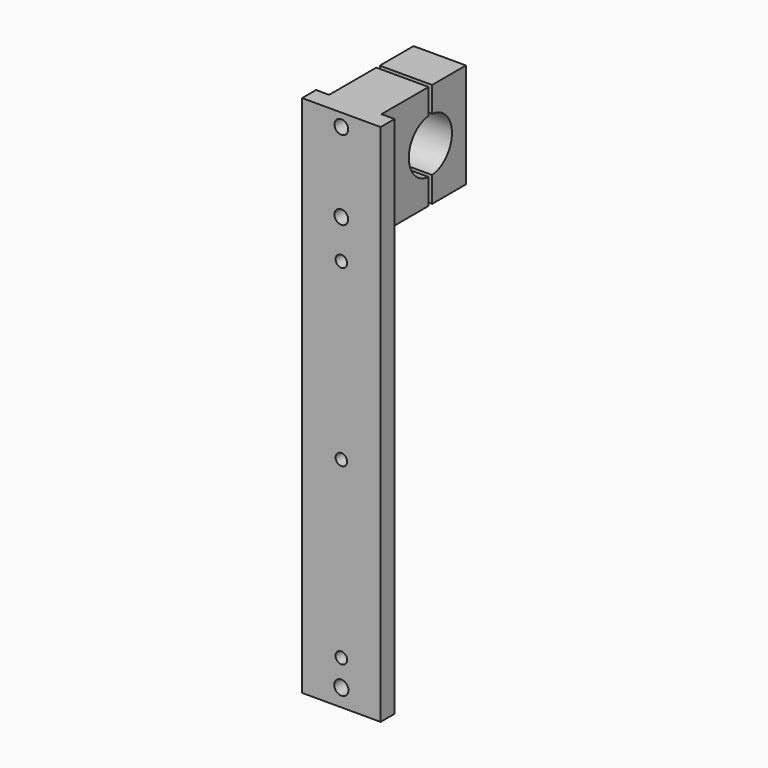
from build123d import *

# Parameters (mm, degrees)
F1_DEPTH       = 14.2875
F1_DEPTH_BACK  = 14.2875
F3_DEPTH       = 9.525
F3_DEPTH_BACK  = 9.525
F4_D           = 5
F4_DEPTH       = 76.2
F4_CBORE_D     = 11.25
F4_CBORE_DEPTH = 0
F5_D           = 4.191
F5_DEPTH       = 76.2
F5_CBORE_D     = 11.25
F5_CBORE_DEPTH = 0
F6_D           = 5.1816
F6_DEPTH       = 76.2
F6_CBORE_D     = 11.25
F6_CBORE_DEPTH = 0


with BuildPart() as f1:
    # F0 (on Right) → F1 (new body, two sides)
    with BuildSketch(Plane.YZ) as f1_sk:
        Polygon((-22.225, 19.05), (-28.575, 19.05), (-28.575, -171.45), (-22.225, -171.45), (-22.225, -19.05), align=None)
    extrude(amount=F1_DEPTH)
    extrude(f1_sk.sketch, amount=-F1_DEPTH_BACK)

    # F0 (on Right) → F3 (join, two sides)
    with BuildSketch(Plane.YZ) as f3_sk:
        with BuildLine():
            Line((-0.79375, 19.05), (-22.225, 19.05))
            Line((-22.225, 19.05), (-22.225, -19.05))
            Line((-22.225, -19.05), (-0.79375, -19.05))
            Line((-0.79375, -19.05), (-0.79375, -9.784959))
            ThreePointArc((-0.79375, -9.784959), (-9.8171, 0), (-0.79375, 9.784959))
            Line((-0.79375, 9.784959), (-0.79375, 19.05))
        make_face()
        with BuildLine():
            Line((16.1671, -19.05), (16.1671, 19.05))
            Line((16.1671, 19.05), (0.79375, 19.05))
            Line((0.79375, 19.05), (0.79375, 9.784959))
            ThreePointArc((0.79375, 9.784959), (9.8171, 0), (0.79375, -9.784959))
            Line((0.79375, -9.784959), (0.79375, -19.05))
            Line((0.79375, -19.05), (16.1671, -19.05))
        make_face()
    extrude(amount=F3_DEPTH)
    extrude(f3_sk.sketch, amount=-F3_DEPTH_BACK)

    # F4
    with Locations(Plane.XZ.offset(28.575)):
        with Locations((0, 14.4272), (0, -14.4272)):
            CounterBoreHole(F4_D / 2, F4_CBORE_D / 2, F4_CBORE_DEPTH, depth=F4_DEPTH)

    # F5
    with Locations(Plane.XZ.offset(28.575)):
        with Locations((0, -28.575), (0, -92.075), (0, -155.575)):
            CounterBoreHole(F5_D / 2, F5_CBORE_D / 2, F5_CBORE_DEPTH, depth=F5_DEPTH)

    # F6
    with Locations(Plane.XZ.offset(28.575)):
        with Locations((0, -165.1)):
            CounterBoreHole(F6_D / 2, F6_CBORE_D / 2, F6_CBORE_DEPTH, depth=F6_DEPTH)


solid = f1.part
